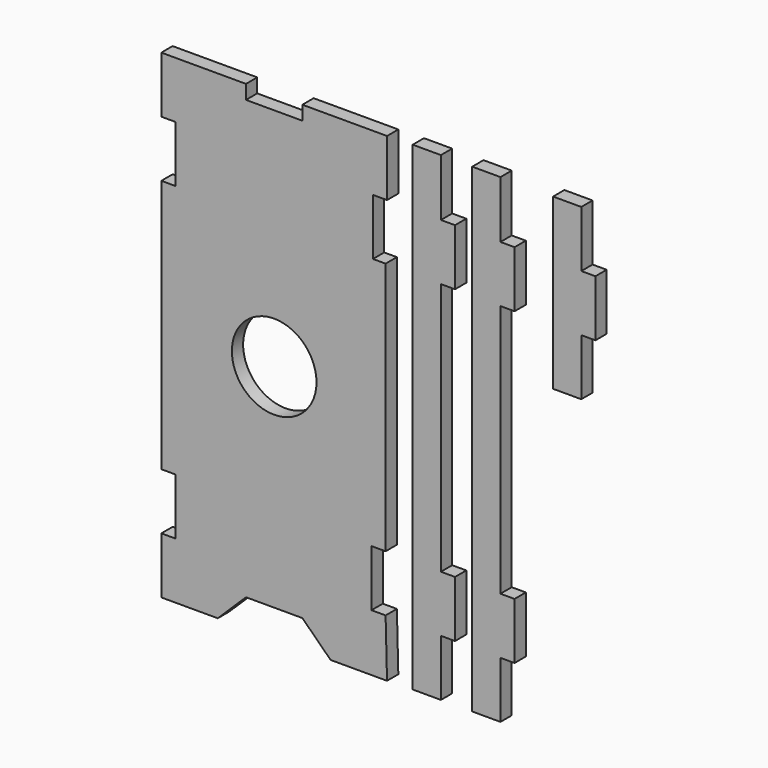
from build123d import *

# Parameters (mm, degrees)
F0_R     = 76.2
F1_DEPTH = 25.4


with BuildPart() as f1:
    # F0 (on Front) → F1 (new body)
    with BuildSketch(Plane.XZ):
        Polygon((-277.427082, 25.282325), (-277.427082, -76.317675), (-175.827082, -76.317675), (-125.027082, -26.438762), (-23.427082, -26.438762), (27.372918, -76.317675), (128.972918, -76.317675), (126.390914, 26.528604), (100.990914, 26.528604), (100.990914, 128.128604), (126.390914, 128.128604), (126.390914, 584.082325), (103.572918, 584.082325), (103.572918, 685.682325), (128.972918, 685.682325), (128.972918, 787.282325), (-23.427082, 787.282325), (-23.427082, 761.882325), (-125.027082, 761.882325), (-125.027082, 787.282325), (-277.427082, 787.282325), (-277.427082, 685.682325), (-252.027082, 685.682325), (-252.027082, 584.082325), (-277.427082, 584.082325), (-277.427082, 126.882325), (-252.027082, 126.882325), (-252.027082, 25.282325), align=None)
        with Locations((-74.227082, 355.482325)):
            Circle(F0_R, mode=Mode.SUBTRACT)
        Polygon((225.979477, 788.528604), (175.179477, 788.528604), (175.179477, -75.071396), (225.979477, -75.071396), (225.979477, 26.528604), (251.379477, 26.528604), (251.379477, 128.128604), (225.979477, 128.128604), (225.979477, 584.082325), (251.379477, 584.082325), (251.379477, 685.682325), (225.979477, 685.682325), align=None)
        Polygon((333.169286, 788.528604), (282.369286, 788.528604), (282.369286, -75.071396), (333.169286, -75.071396), (333.169286, 26.528604), (358.569286, 26.528604), (358.569286, 128.128604), (333.169286, 128.128604), (333.169286, 584.082325), (358.569286, 584.082325), (358.569286, 685.682325), (333.169286, 685.682325), align=None)
        Polygon((478.736971, 788.528604), (427.936971, 788.528604), (427.936971, 483.728604), (478.736971, 483.728604), (478.736971, 585.328604), (504.136971, 585.328604), (504.136971, 686.928604), (478.736971, 686.928604), align=None)
    extrude(amount=F1_DEPTH)


solid = f1.part
